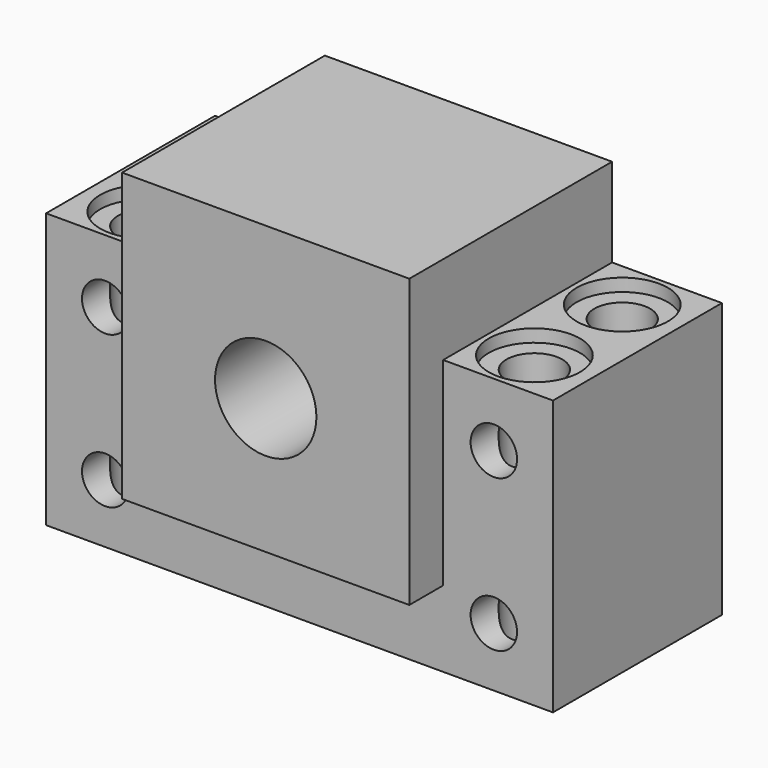
from build123d import *

# Parameters (mm, degrees)
SKETCH_R        = 2.75
PAD_DEPTH       = 25
SKETCH001_W     = 34
SKETCH001_H     = 34
PAD001_DEPTH    = 5
SKETCH002_R     = 6
POCKET_DEPTH    = 30.001
SKETCH003_R     = 3.3
POCKET001_DEPTH = 43.001
SKETCH004_R     = 5.4
POCKET002_DEPTH = 1.5


with BuildPart() as part:
    # Sketch → Pad (new body)
    with BuildSketch(Plane.XZ):
        Polygon((-30, 32.5), (-30, 0), (30, 0), (30, 32.5), (17, 32.5), (17, 43), (-17, 43), (-17, 32.5), align=None)
        with Locations((-23, 25)):
            Circle(SKETCH_R, mode=Mode.SUBTRACT)
        with Locations((-23, 7)):
            Circle(SKETCH_R, mode=Mode.SUBTRACT)
        with Locations((23, 7)):
            Circle(SKETCH_R, mode=Mode.SUBTRACT)
        with Locations((23, 25)):
            Circle(SKETCH_R, mode=Mode.SUBTRACT)
    extrude(amount=PAD_DEPTH)

    # Sketch001 (on Face14 of Pad) → Pad001 (join)
    with BuildSketch(Plane.XZ.offset(25)):
        with Locations((0, 26)):
            Rectangle(SKETCH001_W, SKETCH001_H)
    extrude(amount=PAD001_DEPTH)

    # Sketch002 (on Face19 of Pad001) → Pocket (cut, through all)
    with BuildSketch(Plane.XZ.offset(30)):
        with Locations((0, 25)):
            Circle(SKETCH002_R)
    extrude(amount=-POCKET_DEPTH, mode=Mode.SUBTRACT)

    # Sketch003 (on Face3 of Pocket) → Pocket001 (cut, through all)
    with BuildSketch(Plane(origin=(0, 0, 0), x_dir=(1, 0, 0), z_dir=(0, 0, -1))):
        with Locations((-23, 19)):
            Circle(SKETCH003_R)
        with Locations((-23, 6)):
            Circle(SKETCH003_R)
        with Locations((23, 6)):
            Circle(SKETCH003_R)
        with Locations((23, 19)):
            Circle(SKETCH003_R)
    extrude(amount=-POCKET001_DEPTH, mode=Mode.SUBTRACT)

    # Sketch004 (on Face13 of Pocket001) → Pocket002 (cut)
    with BuildSketch(Plane(origin=(0, 0, 32.5), x_dir=(-1, 0, 0), z_dir=(0, 0, 1))):
        with Locations((-23, 19)):
            Circle(SKETCH004_R)
        with Locations((-23, 6)):
            Circle(SKETCH004_R)
        with Locations((23, 6)):
            Circle(SKETCH004_R)
        with Locations((23, 19)):
            Circle(SKETCH004_R)
    extrude(amount=-POCKET002_DEPTH, mode=Mode.SUBTRACT)


solid = part.part
